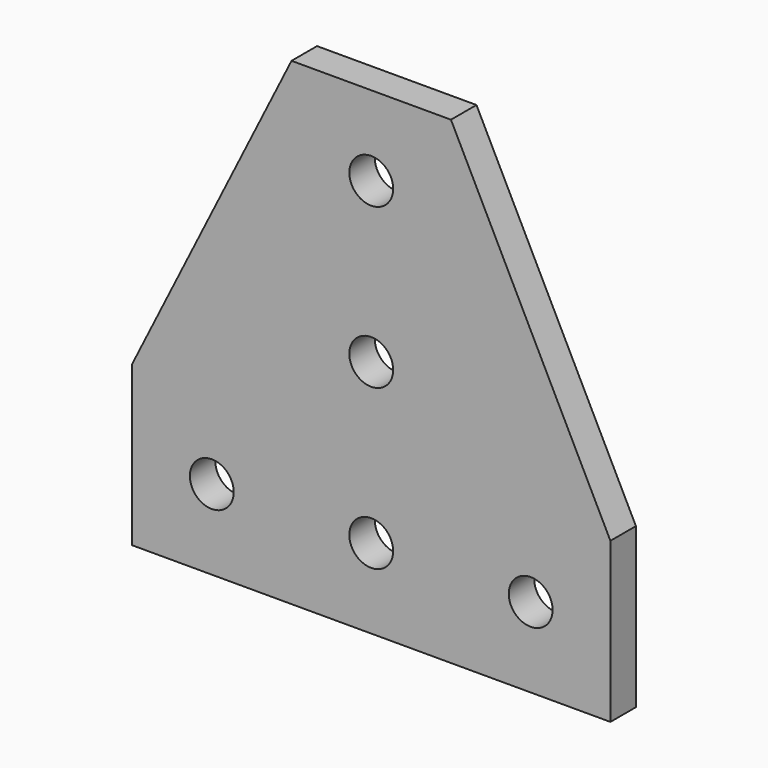
from build123d import *

# Parameters (mm, degrees)
F0_R     = 2.75
F1_DEPTH = 4


with BuildPart() as f1:
    # F0 (on Front) → F1 (new body)
    with BuildSketch(Plane.XZ):
        Polygon((-30, -10), (-30, -30), (30, -30), (30, -10), (10, 30), (-10, 30), align=None)
        with Locations((-20, -20)):
            Circle(F0_R, mode=Mode.SUBTRACT)
        with Locations((0, -20)):
            Circle(F0_R, mode=Mode.SUBTRACT)
        with Locations((20, -20)):
            Circle(F0_R, mode=Mode.SUBTRACT)
        Circle(F0_R, mode=Mode.SUBTRACT)
        with Locations((0, 20)):
            Circle(F0_R, mode=Mode.SUBTRACT)
    extrude(amount=F1_DEPTH)


solid = f1.part
